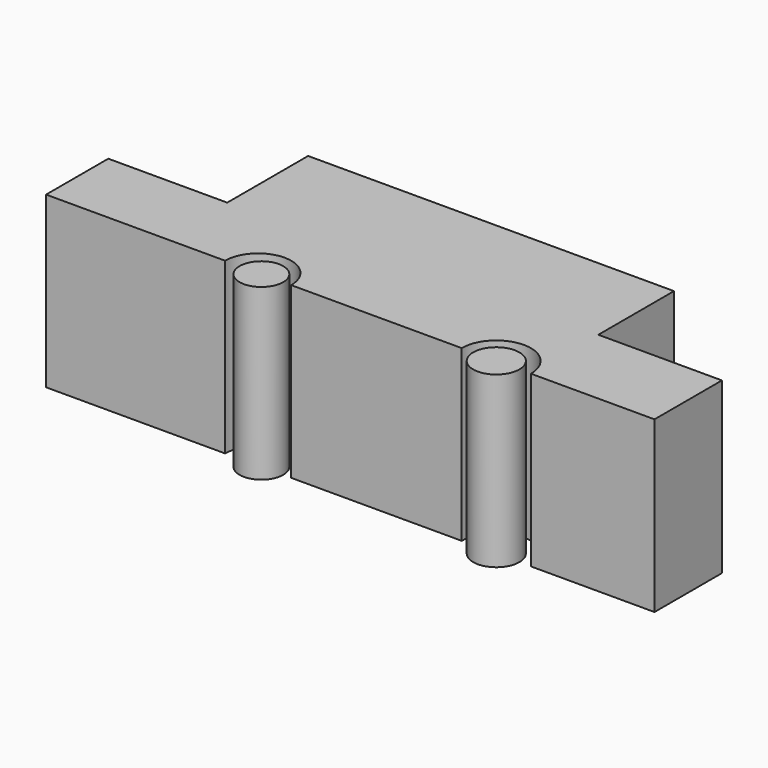
from build123d import *

# Parameters (mm, degrees)
F1_DEPTH = 25.4
F2_R     = 3.263352
F2_R_2   = 3.461171
F3_DEPTH = 25.4


with BuildPart() as f1:
    # F0 (on Top) → F1 (new body)
    with BuildSketch(Plane.XY):
        with BuildLine():
            Line((25.57325, 12.616515), (25.57325, 26.773181))
            Line((25.57325, 26.773181), (-29.197857, 26.773181))
            Line((-29.197857, 26.773181), (-29.197857, 11.639386))
            Line((-29.197857, 11.639386), (-47.005713, 11.639386))
            Line((-47.005713, 11.639386), (-47.005713, 0))
            Line((-47.005713, 0), (-29.197857, 0))
            Line((-29.197857, 0), (-20.211069, 0))
            ThreePointArc((-20.211069, 0), (-15.26159, 4.949478), (-10.312112, 0))
            Line((-10.312112, 0), (15.205715, 0))
            ThreePointArc((15.205715, 0), (20.389482, 5.183768), (25.57325, 0))
            Line((25.57325, 0), (44.075489, 0))
            Line((44.075489, 0), (44.075489, 12.616515))
            Line((44.075489, 12.616515), (25.57325, 12.616515))
        make_face()
    extrude(amount=F1_DEPTH)


with BuildPart() as f3:
    # F2 (on Top) → F3 (new body)
    with BuildSketch(Plane.XY):
        with Locations((-14.77322, 0)):
            Circle(F2_R)
        with Locations((20.389482, 0)):
            Circle(F2_R_2)
    extrude(amount=F3_DEPTH)


solid = Compound([f1.part, f3.part])
